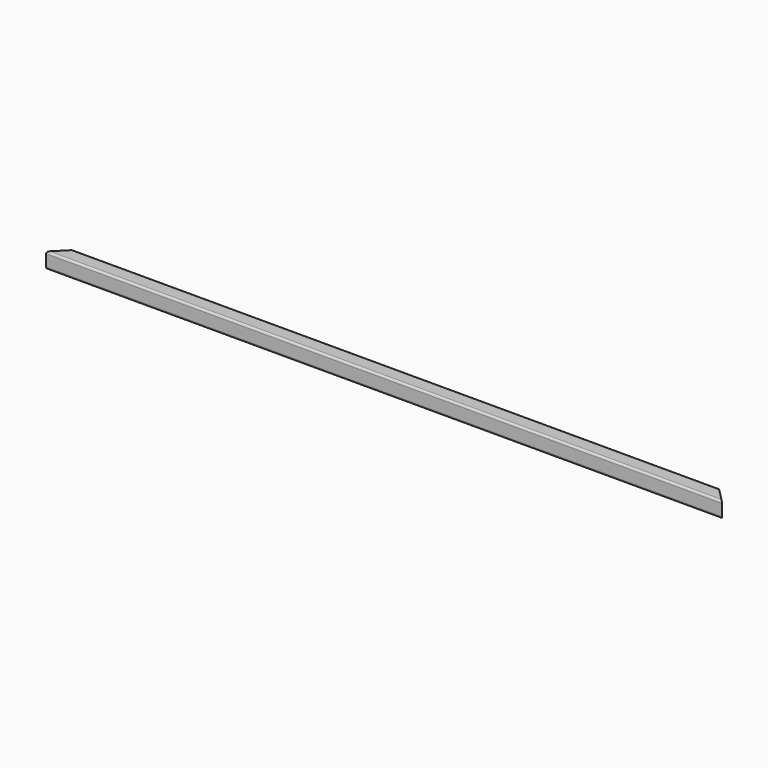
from build123d import *

# Parameters (mm, degrees)
F1_DEPTH = 1725
F3_DEPTH = 80.001


with BuildPart() as f1:
    # F0 (on Right) → F1 (new body, symmetric)
    with BuildSketch(Plane.YZ):
        with BuildLine():
            ThreePointArc((40, 30), (37.071068, 37.071068), (30, 40))
            Line((30, 40), (-30, 40))
            ThreePointArc((-30, 40), (-37.071068, 37.071068), (-40, 30))
            Line((-40, 30), (-40, -30))
            ThreePointArc((-40, -30), (-37.071068, -37.071068), (-30, -40))
            Line((-30, -40), (30, -40))
            ThreePointArc((30, -40), (37.071068, -37.071068), (40, -30))
            Line((40, -30), (40, 30))
        make_face()
        with BuildLine():
            ThreePointArc((30, 35), (33.535534, 33.535534), (35, 30))
            Line((35, 30), (35, -30))
            ThreePointArc((35, -30), (33.535534, -33.535534), (30, -35))
            Line((30, -35), (-30, -35))
            ThreePointArc((-30, -35), (-33.535534, -33.535534), (-35, -30))
            Line((-35, -30), (-35, 30))
            ThreePointArc((-35, 30), (-33.535534, 33.535534), (-30, 35))
            Line((-30, 35), (30, 35))
        make_face(mode=Mode.SUBTRACT)
    extrude(amount=F1_DEPTH, both=True)

    # F2 (on face) → F3 (cut, through all)
    with BuildSketch(Plane.XY.offset(40)):
        Polygon((-1725, 40), (-1725, -40), (-1645, 40), align=None)
        Polygon((1725, -40), (1725, 40), (1645, 40), align=None)
    extrude(amount=-F3_DEPTH, mode=Mode.SUBTRACT)


solid = f1.part
